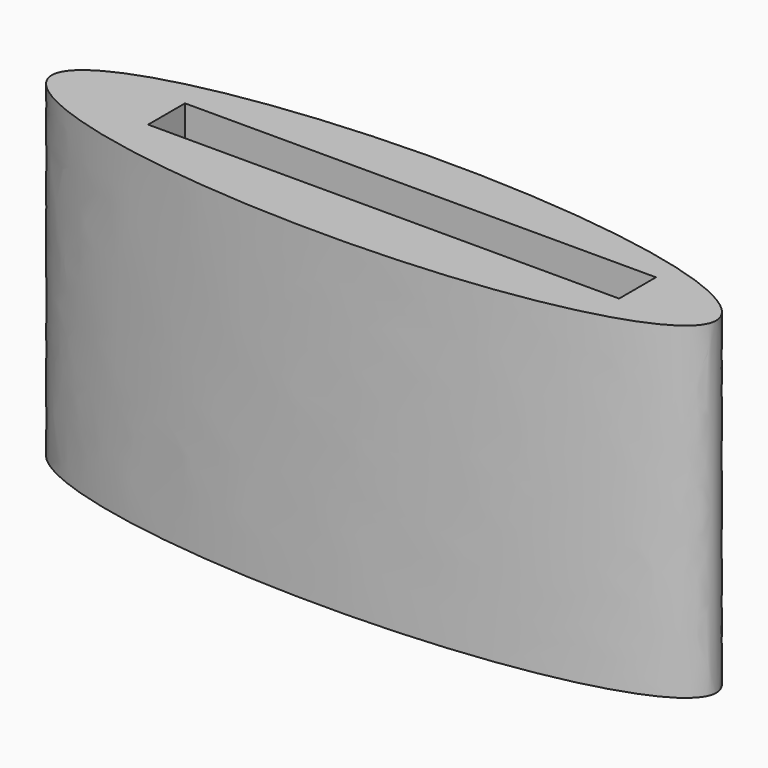
from build123d import *

# Parameters (mm, degrees)
F1_DEPTH = 72.213026
F3_W     = 103.764415
F3_H     = 10.157064
F4_DEPTH = 25.200456


with BuildPart() as f1:
    # F0 (on Top) → F1 (new body)
    with BuildSketch(Plane.XY):
        with BuildLine():
            add(Edge.make_bspline(
                [(21.992102, 16.247669), (21.992102, 45.809592), (-87.792367, 31.028631), (-197.576836, 16.247669), (-87.792367, 1.466708), (21.992102, -13.314254), (21.992102, 16.247669)],
                knots=[0, 0, 0, 2.094395, 2.094395, 4.18879, 4.18879, 6.283185, 6.283185, 6.283185], degree=2, weights=[1, 0.5, 1, 0.5, 1, 0.5, 1]))
        make_face()
    extrude(amount=F1_DEPTH)

    # F3 (on face) → F4 (cut)
    with BuildSketch(Plane.XY.offset(72.213026)):
        with Locations((-48.04822, 17.279111)):
            Rectangle(F3_W, F3_H)
    extrude(amount=-F4_DEPTH, mode=Mode.SUBTRACT)


solid = f1.part
